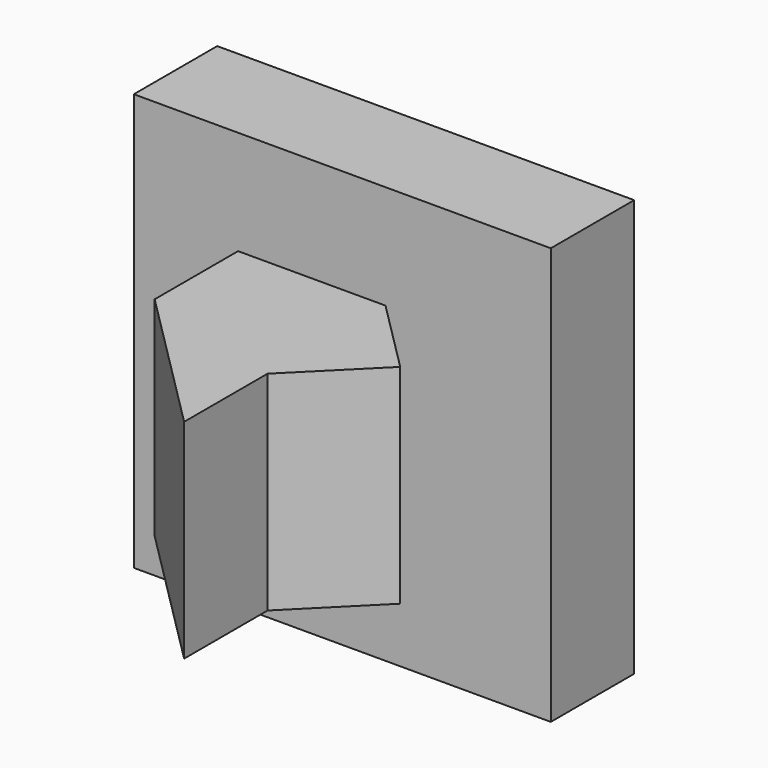
from build123d import *

# Parameters (mm, degrees)
F1_W      = 50
F1_H      = 50
F2_DEPTH  = 25
F3_ANGLE  = 45
F0_W      = 100
F0_H      = 100
F2_FACE_W = 50
F2_FACE_H = 50
F4_DEPTH  = 25


with BuildPart() as f2:
    # F1 (on Front) → F2 (new body)
    with BuildSketch(Plane.XZ):
        Rectangle(F1_W, F1_H)
    extrude(amount=F2_DEPTH)


with BuildPart() as f2_1:
    # F3: moved
    add(f2.part.rotate(Axis((-25, -25, 0), (0, 0, -1)), F3_ANGLE))

    # F0 (on Front) + F2_face (on face) → F4 (join)
    with BuildSketch(Plane.XZ):
        Rectangle(F0_W, F0_H)
    with BuildSketch(Plane(origin=(-7.3223304703, -42.6776695297, 0), x_dir=(0.7071067812, -0.7071067812, 0), z_dir=(-0.7071067812, -0.7071067812, 0))):
        Rectangle(F2_FACE_W, F2_FACE_H)
    extrude(amount=F4_DEPTH, dir=(0, -1, 0))


solid = f2_1.part
